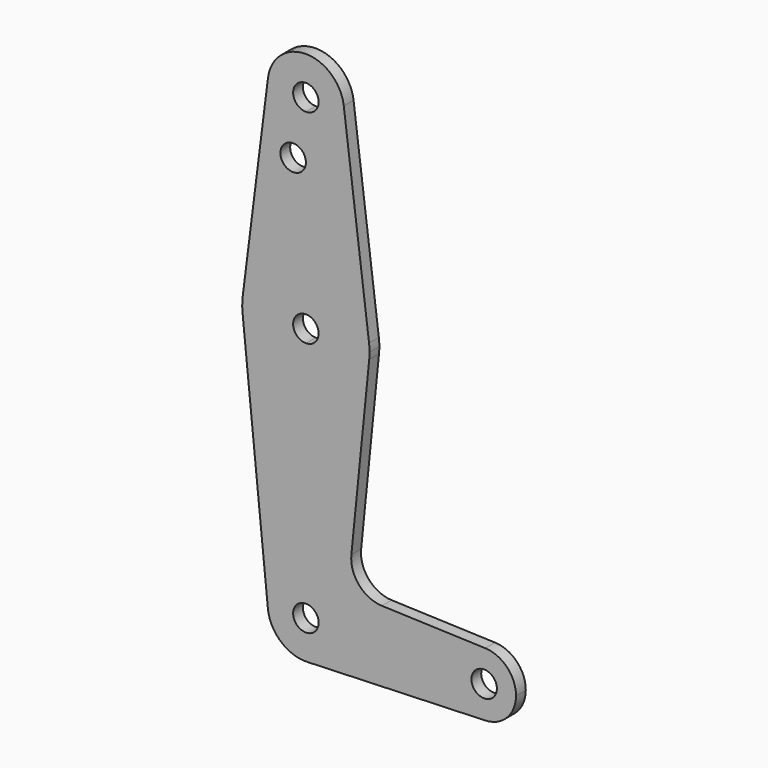
from build123d import *

# Parameters (mm, degrees)
F0_R     = 3.175
F1_DEPTH = 3.048


with BuildPart() as f1:
    # F0 (on Front) → F1 (new body)
    with BuildSketch(Plane.XZ):
        with BuildLine():
            ThreePointArc((3.175, 0), (-2.2450640303, -2.2450640303), (0, 3.175))
            Line((0, 3.175), (0, 9.525))
            ThreePointArc((0, 9.525), (-7.063929059, 6.3895642457), (-9.4772553384, -0.9525))
            ThreePointArc((-9.4772553384, -0.9525), (-6.2623833816, -7.1769199091), (0.3401785714, -9.5189234444))
            ThreePointArc((0.3401785714, -9.5189234444), (6.8544082857, -6.6138273378), (9.525, 0))
            Line((9.525, 0), (3.175, 0))
        make_face()
        with BuildLine():
            ThreePointArc((-9.4772553384, -0.9525), (-7.063929059, 6.3895642457), (0, 9.525))
            Line((0, 9.525), (0, 47.625))
            ThreePointArc((0, 47.625), (-10.6492737428, 51.7267849017), (-15.7954255641, 61.9125))
            Line((-15.7954255641, 61.9125), (-9.4772553384, -0.9525))
        make_face()
        with BuildLine():
            Line((0, 47.625), (0, 9.525))
            ThreePointArc((0, 9.525), (6.7351920908, 6.7351920908), (9.525, 0))
            Line((9.525, 0), (36.5125, 0))
            ThreePointArc((36.5125, 0), (38.9384772185, 5.7120069047), (44.7334821429, 7.9324362036))
            Line((44.7334821429, 7.9324362036), (18.9540626303, 8.853717497))
            ThreePointArc((18.9540626303, 8.853717497), (13.2567781822, 11.5675008826), (11.3398319911, 17.5799037006))
            Line((11.3398319911, 17.5799037006), (15.7954255641, 61.9125))
            ThreePointArc((15.7954255641, 61.9125), (10.6492737428, 51.7267849017), (0, 47.625))
        make_face()
        with BuildLine():
            Line((36.5125, 0), (9.525, 0))
            ThreePointArc((9.525, 0), (6.8544082857, -6.6138273378), (0.3401785714, -9.5189234444))
            Line((0.3401785714, -9.5189234444), (44.7334821429, -7.9324362036))
            ThreePointArc((44.7334821429, -7.9324362036), (38.9384772185, -5.7120069047), (36.5125, 0))
        make_face()
        with BuildLine():
            ThreePointArc((-15.7954255641, 61.9125), (-10.6492737428, 51.7267849017), (0, 47.625))
            Line((0, 47.625), (0, 60.325))
            ThreePointArc((0, 60.325), (-3.175, 63.5), (0, 66.675))
            Line((0, 66.675), (0, 79.375))
            ThreePointArc((0, 79.375), (-10.5003255158, 75.40625), (-15.7504882737, 65.484375))
            ThreePointArc((-15.7504882737, 65.484375), (-15.8737438155, 63.6997054867), (-15.7954255641, 61.9125))
        make_face()
        with BuildLine():
            Line((0, 60.325), (0, 47.625))
            ThreePointArc((0, 47.625), (10.6492737428, 51.7267849017), (15.7954255641, 61.9125))
            ThreePointArc((15.7954255641, 61.9125), (15.8550939106, 62.7052534459), (15.875, 63.5))
            ThreePointArc((15.875, 63.5), (15.8438414904, 64.4941387366), (15.7504882737, 65.484375))
            ThreePointArc((15.7504882737, 65.484375), (10.5003255158, 75.40625), (0, 79.375))
            Line((0, 79.375), (0, 66.675))
            ThreePointArc((0, 66.675), (2.2450640303, 65.7450640303), (3.175, 63.5))
            ThreePointArc((3.175, 63.5), (2.2450640303, 61.2549359697), (0, 60.325))
        make_face()
        with BuildLine():
            ThreePointArc((44.7334821429, 7.9324362036), (38.9384772185, 5.7120069047), (36.5125, 0))
            ThreePointArc((36.5125, 0), (38.9384772185, -5.7120069047), (44.7334821429, -7.9324362036))
            ThreePointArc((44.7334821429, -7.9324362036), (50.1620069047, -5.5115227815), (52.3875, 0))
            ThreePointArc((52.3875, 0), (50.1620069047, 5.5115227815), (44.7334821429, 7.9324362036))
        make_face()
        with BuildLine():
            ThreePointArc((47.625, 0), (44.45, -3.175), (41.275, 0))
            ThreePointArc((41.275, 0), (44.45, 3.175), (47.625, 0))
        make_face(mode=Mode.SUBTRACT)
        with BuildLine():
            Line((-9.4502929642, 115.490625), (-15.7504882737, 65.484375))
            ThreePointArc((-15.7504882737, 65.484375), (-10.5003255158, 75.40625), (0, 79.375))
            Line((0, 79.375), (0, 100.0125))
            Line((0, 100.0125), (0, 104.775))
            ThreePointArc((0, 104.775), (-7.14375, 107.9998046905), (-9.4502929642, 115.490625))
        make_face()
        with Locations((-3.175, 100.0125)):
            Circle(F0_R, mode=Mode.SUBTRACT)
        with BuildLine():
            Line((0, 100.0125), (0, 79.375))
            ThreePointArc((0, 79.375), (10.5003255158, 75.40625), (15.7504882737, 65.484375))
            Line((15.7504882737, 65.484375), (9.4502929642, 115.490625))
            ThreePointArc((9.4502929642, 115.490625), (9.5063048942, 114.896483242), (9.525, 114.3))
            ThreePointArc((9.525, 114.3), (6.7351920908, 107.5648079092), (0, 104.775))
            Line((0, 104.775), (0, 100.0125))
        make_face()
        with BuildLine():
            ThreePointArc((9.4502929642, 115.490625), (0, 123.825), (-9.4502929642, 115.490625))
            ThreePointArc((-9.4502929642, 115.490625), (-7.14375, 107.9998046905), (0, 104.775))
            ThreePointArc((0, 104.775), (6.7351920908, 107.5648079092), (9.525, 114.3))
            ThreePointArc((9.525, 114.3), (9.5063048942, 114.896483242), (9.4502929642, 115.490625))
        make_face()
        with BuildLine():
            ThreePointArc((3.175, 114.3), (2.2450640303, 112.0549359697), (0, 111.125))
            ThreePointArc((0, 111.125), (-2.2450640303, 116.5450640303), (3.175, 114.3))
        make_face(mode=Mode.SUBTRACT)
        with BuildLine():
            Line((0, 9.525), (0, 3.175))
            ThreePointArc((0, 3.175), (2.2450640303, 2.2450640303), (3.175, 0))
            Line((3.175, 0), (9.525, 0))
            ThreePointArc((9.525, 0), (6.7351920908, 6.7351920908), (0, 9.525))
        make_face()
    extrude(amount=F1_DEPTH)


solid = f1.part
